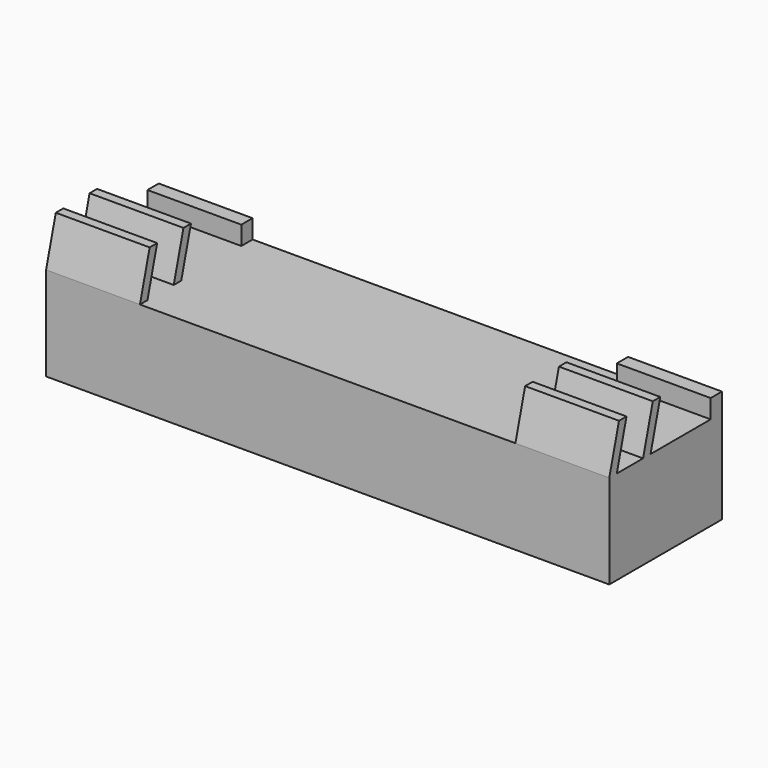
from build123d import *

# Parameters (mm, degrees)
F0_W     = 60
F0_H     = 15
F1_DEPTH = 10
F2_W     = 1.5
F2_H     = 2
F3_DEPTH = 10


with BuildPart() as f1:
    # F0 (on Top) → F1 (new body)
    with BuildSketch(Plane.XY):
        Rectangle(F0_W, F0_H)
    extrude(amount=F1_DEPTH)

    # F2 (on face) → F3 (join)
    with BuildSketch(Plane.YZ.offset(30)):
        Polygon((-6.205905, 14.829629), (-7.5, 10), (-6.5, 10), (-5.205905, 14.829629), align=None)
        Polygon((-3, 10), (-2, 10), (-0.705905, 14.829629), (-1.705905, 14.829629), align=None)
        with Locations((6.75, 11)):
            Rectangle(F2_W, F2_H)
    extrude(amount=-F3_DEPTH)

    # F4: F1 across plane


with BuildPart() as f1_1:
    add(f1.part)
    add(f1.part.mirror(Plane.YZ))


solid = f1_1.part
